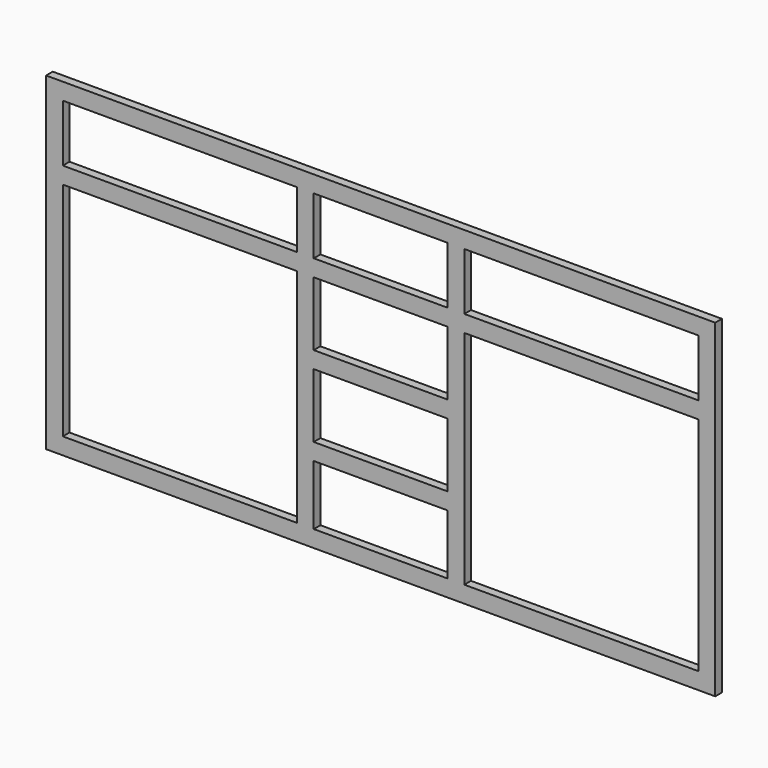
from build123d import *

# Parameters (mm, degrees)
F0_W     = 1524
F0_H     = 749.3
F0_W_2   = 533.4
F0_H_2   = 673.1
F0_W_3   = 304.8
F1_DEPTH = 19.05
F2_W     = 19.05
F2_H     = 38.1
F3_DEPTH = 1447.8
F4_W     = 19.05
F4_H     = 38.1
F5_DEPTH = 304.8
F6_W     = 19.05
F6_H     = 38.1
F7_DEPTH = 304.8


with BuildPart() as f1:
    # F0 (on Front) → F1 (new body)
    with BuildSketch(Plane.XZ):
        with Locations((762, 374.65)):
            Rectangle(F0_W, F0_H)
        with Locations((304.8, 374.65)):
            Rectangle(F0_W_2, F0_H_2, mode=Mode.SUBTRACT)
        with Locations((762, 374.65)):
            Rectangle(F0_W_3, F0_H_2, mode=Mode.SUBTRACT)
        with Locations((1219.2, 374.65)):
            Rectangle(F0_W_2, F0_H_2, mode=Mode.SUBTRACT)
    extrude(amount=F1_DEPTH)

    # F2 (on face) → F3 (join, through all)
    with BuildSketch(Plane.YZ.offset(38.1)):
        with Locations((-9.525, 561.975)):
            Rectangle(F2_W, F2_H)
    extrude(amount=F3_DEPTH)

    # F4 (on face) → F5 (join, through all)
    with BuildSketch(Plane.YZ.offset(609.6)):
        with Locations((-9.525, 377.825)):
            Rectangle(F4_W, F4_H)
    extrude(amount=F5_DEPTH)

    # F6 (on face) → F7 (join, through all)
    with BuildSketch(Plane.YZ.offset(609.6)):
        with Locations((-9.525, 193.675)):
            Rectangle(F6_W, F6_H)
    extrude(amount=F7_DEPTH)


solid = f1.part
